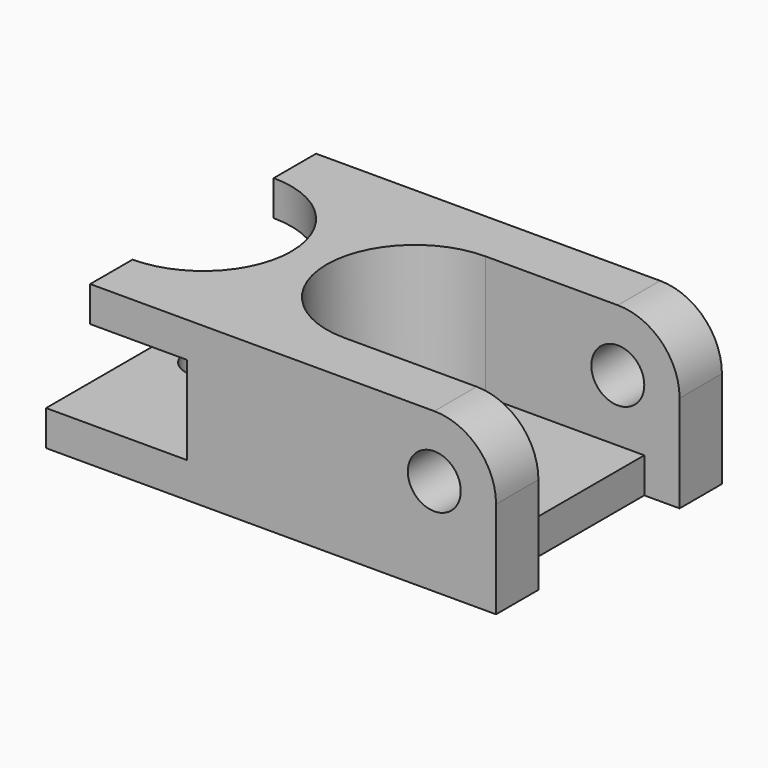
from build123d import *

# Parameters (mm, degrees)
F0_R     = 3
F1_DEPTH = 16
F3_DEPTH = 14
F4_W     = 20
F4_H     = 4
F5_DEPTH = 4
F6_R     = 3
F7_DEPTH = 25
F8_R     = 4
F9_DEPTH = 25


with BuildPart() as f1:
    # F0 (on Front) → F1 (new body, symmetric)
    with BuildSketch(Plane.XZ):
        with BuildLine():
            Line((-11.5073820825, 4), (-11.5073820825, 0))
            Line((-11.5073820825, 0), (39.4926179175, 0))
            Line((39.4926179175, 0), (39.4926179175, 11))
            ThreePointArc((39.4926179175, 11), (37.4423653858, 15.9497474683), (32.4926179175, 18))
            Line((32.4926179175, 18), (-6.5073820825, 18))
            Line((-6.5073820825, 18), (-6.5073820825, 14))
            Line((-6.5073820825, 14), (4.4926179175, 14))
            Line((4.4926179175, 14), (4.4926179175, 4))
            Line((4.4926179175, 4), (-11.5073820825, 4))
        make_face()
        with Locations((32.4926179175, 11)):
            Circle(F0_R, mode=Mode.SUBTRACT)
    extrude(amount=F1_DEPTH, both=True)

    # F2 (on face) → F3 (cut)
    with BuildSketch(Plane.XY.offset(18)):
        with BuildLine():
            Line((44.1028997302, 10), (32.4926179175, 10))
            Line((32.4926179175, 10), (17.4926179175, 10))
            ThreePointArc((17.4926179175, 10), (7.4926179175, 0), (17.4926179175, -10))
            Line((17.4926179175, -10), (32.4926179175, -10))
            Line((32.4926179175, -10), (44.1028997302, -10))
            Line((44.1028997302, -10), (44.1028997302, 10))
        make_face()
        with BuildLine():
            ThreePointArc((-6.5073820825, -10), (3.4926179175, 0), (-6.5073820825, 10))
            Line((-6.5073820825, 10), (-6.5073820825, -10))
        make_face()
    extrude(amount=-F3_DEPTH, mode=Mode.SUBTRACT)

    # F4 (on face) → F5 (cut)
    with BuildSketch(Plane.YZ.offset(39.4926179175)):
        with Locations((0, 2)):
            Rectangle(F4_W, F4_H)
    extrude(amount=-F5_DEPTH, mode=Mode.SUBTRACT)

    # F6 (on face) → F7 (cut)
    with BuildSketch(Plane.XY.offset(4)):
        with Locations((-5.5073820825, 0)):
            Circle(F6_R)
    extrude(amount=-F7_DEPTH, mode=Mode.SUBTRACT)

    # F8 (on face) → F9 (cut)
    with BuildSketch(Plane.XY.offset(4)):
        with Locations((17.4926179175, 0)):
            Circle(F8_R)
    extrude(amount=-F9_DEPTH, mode=Mode.SUBTRACT)


solid = f1.part
